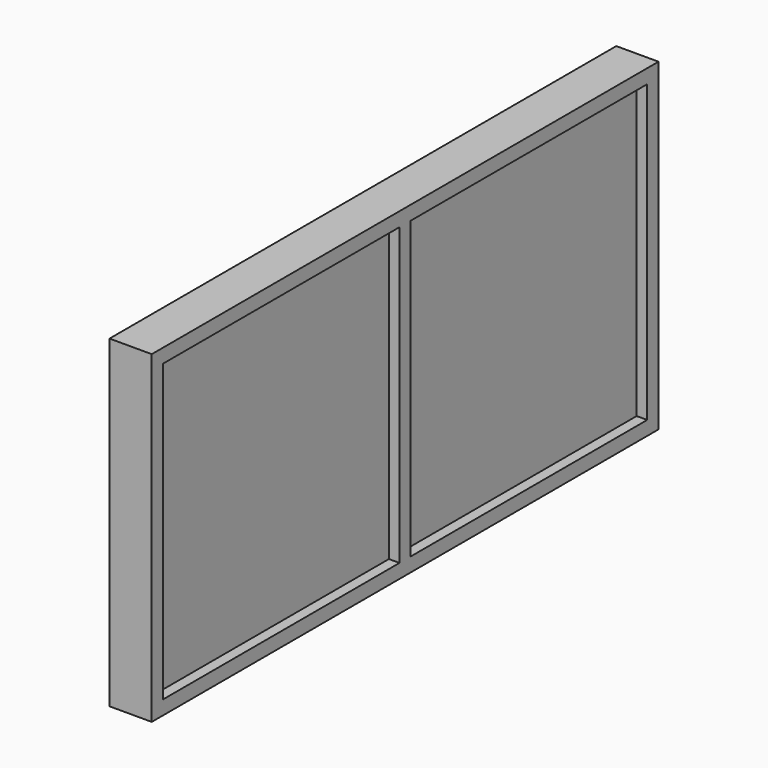
from build123d import *

# Parameters (mm, degrees)
F0_W     = 90
F0_H     = 46
F1_DEPTH = 3
F3_START = -4.5
F2_W     = 42
F2_H     = 42
F3_DEPTH = 1.5
F4_DEPTH = 1.5


with BuildPart() as f1:
    # F0 (on Right) → F1 (new body, symmetric)
    with BuildSketch(Plane.YZ):
        Rectangle(F0_W, F0_H)
    extrude(amount=F1_DEPTH, both=True)

    # F2 (on face) → F3 (cut)
    with BuildSketch(Plane.YZ.offset(3).offset(F3_START)):
        with Locations((-22, 0)):
            Rectangle(F2_W, F2_H)
        with Locations((22, 0)):
            Rectangle(F2_W, F2_H)
    extrude(amount=-F3_DEPTH, mode=Mode.SUBTRACT)

    # F2 (on face) → F4 (cut)
    with BuildSketch(Plane.YZ.offset(3)):
        with Locations((-22, 0)):
            Rectangle(F2_W, F2_H)
        with Locations((22, 0)):
            Rectangle(F2_W, F2_H)
    extrude(amount=-F4_DEPTH, mode=Mode.SUBTRACT)


solid = f1.part
